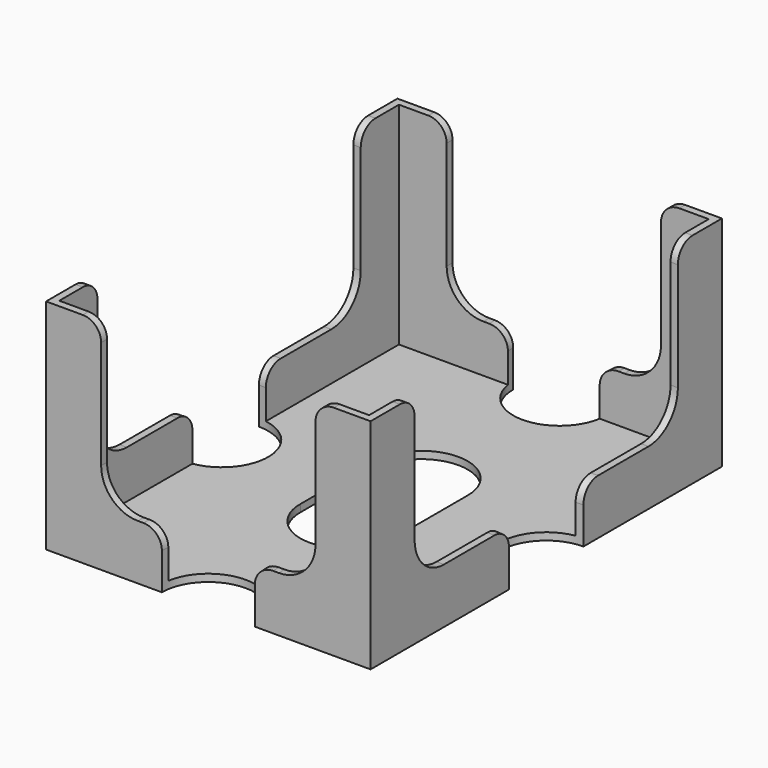
from build123d import *

# Parameters (mm, degrees)
SKETCH031_W          = 70.7
SKETCH031_H          = 95.7
PAD016_DEPTH         = 47.6
THICKNESS016_T       = -1.6
POCKET015_DEPTH      = 47.851
POCKET015_DEPTH_BACK = 47.851
POCKET016_DEPTH      = 35.351
POCKET016_DEPTH_BACK = 35.351
SKETCH034_R          = 10.125
POCKET017_DEPTH      = 0.001
POCKET017_DEPTH_BACK = 47.601
FILLET002_R          = 4


with BuildPart() as part:
    # Sketch031 → Pad016 (new body)
    with BuildSketch(Plane.XY):
        Rectangle(SKETCH031_W, SKETCH031_H)
    extrude(amount=PAD016_DEPTH)

    # Thickness016
    thickness016_openings = [part.faces().sort_by_distance(p)[0] for p in [
        (0, 0, 47.6),
    ]]
    offset(amount=THICKNESS016_T, openings=thickness016_openings, kind=Kind.INTERSECTION)

    # Sketch032 → Pocket015 (cut, two sides)
    with BuildSketch(Plane.XZ) as pocket015_sk:
        with BuildLine():
            Line((-23.35, 47.6), (23.35, 47.6))
            Line((23.35, 47.6), (23.35, 20))
            ThreePointArc((15.35, 12), (21.006854, 14.343146), (23.35, 20))
            Line((15.35, 12), (-15.35, 12))
            ThreePointArc((-23.35, 20), (-21.006854, 14.343146), (-15.35, 12))
            Line((-23.35, 20), (-23.35, 47.6))
        make_face()
    extrude(amount=-POCKET015_DEPTH, mode=Mode.SUBTRACT)
    extrude(pocket015_sk.sketch, amount=POCKET015_DEPTH_BACK, mode=Mode.SUBTRACT)

    # Sketch033 → Pocket016 (cut, two sides)
    with BuildSketch(Plane.YZ) as pocket016_sk:
        with BuildLine():
            Line((-35.85, 47.6), (35.85, 47.6))
            Line((35.85, 47.6), (35.85, 20))
            ThreePointArc((27.85, 12), (33.506854, 14.343146), (35.85, 20))
            Line((27.85, 12), (-27.85, 12))
            ThreePointArc((-35.85, 20), (-33.506854, 14.343146), (-27.85, 12))
            Line((-35.85, 20), (-35.85, 47.6))
        make_face()
    extrude(amount=-POCKET016_DEPTH, mode=Mode.SUBTRACT)
    extrude(pocket016_sk.sketch, amount=POCKET016_DEPTH_BACK, mode=Mode.SUBTRACT)

    # Sketch034 → Pocket017 (cut, two sides)
    with BuildSketch(Plane.XY) as pocket017_sk:
        with Locations((0, 47.85)):
            Circle(SKETCH034_R)
        with Locations((0, -47.85)):
            Circle(SKETCH034_R)
        with Locations((35.35, 0)):
            Circle(SKETCH034_R)
        with Locations((-35.35, 0)):
            Circle(SKETCH034_R)
        with BuildLine():
            ThreePointArc((10.125, 10.125), (0, 20.25), (-10.125, 10.125))
            Line((-10.125, 10.125), (-10.125, -10.125))
            ThreePointArc((-10.125, -10.125), (0, -20.25), (10.125, -10.125))
            Line((10.125, 10.125), (10.125, -10.125))
        make_face()
    extrude(amount=-POCKET017_DEPTH, mode=Mode.SUBTRACT)
    extrude(pocket017_sk.sketch, amount=POCKET017_DEPTH_BACK, mode=Mode.SUBTRACT)

    # Fillet002
    fillet002_edges = [part.edges().sort_by_distance(p)[0] for p in [
        (34.547475, -10.093145, 12),
        (34.547475, 10.093145, 12),
        (34.55, 35.85, 47.6),
        (23.35, 47.05, 47.6),
        (10.093145, 47.047475, 12),
        (-10.093145, 47.047475, 12),
        (-23.35, 47.05, 47.6),
        (-34.55, 35.85, 47.6),
        (-34.547475, 10.093145, 12),
        (-34.547475, -10.093145, 12),
        (-34.55, -35.85, 47.6),
        (-23.35, -47.05, 47.6),
        (-10.093145, -47.047475, 12),
        (10.093145, -47.047475, 12),
        (23.35, -47.05, 47.6),
        (34.55, -35.85, 47.6),
    ]]
    fillet(fillet002_edges, radius=FILLET002_R)


with BuildPart() as part_1:
    # Body016 placement: moved
    add(part.part.moved(Location((69.1, 0, 0))))


solid = part_1.part
